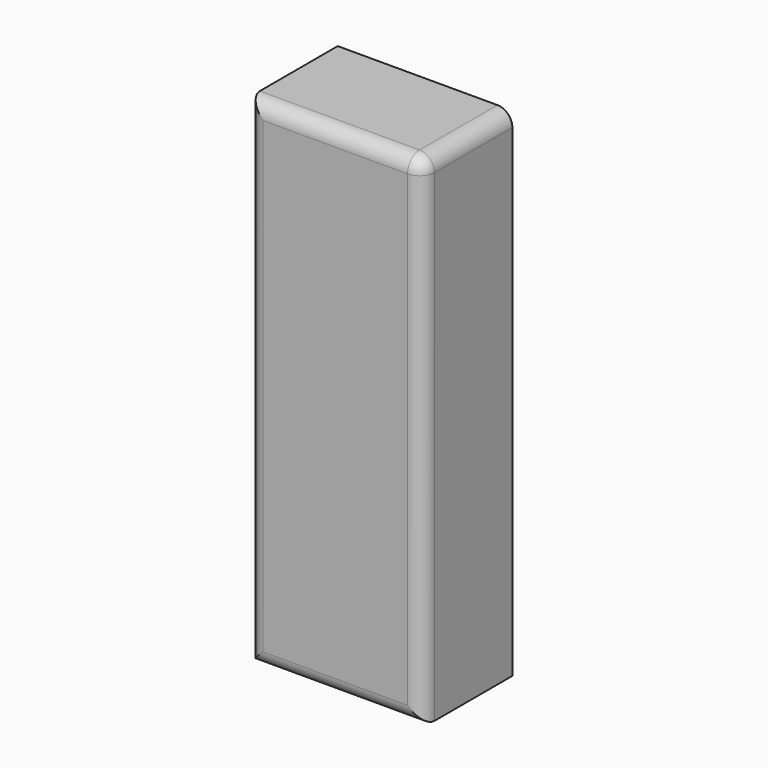
from build123d import *

# Parameters (mm, degrees)
F0_W     = 175.415128
F0_H     = 112.812422
F1_DEPTH = 500
F2_R     = 15


with BuildPart() as f1:
    # F0 (on Top) → F1 (new body)
    with BuildSketch(Plane.XY):
        with Locations((87.707564, -56.406211)):
            Rectangle(F0_W, F0_H)
        with Locations((87.707564, -56.406211)):
            Rectangle(F0_W, F0_H)
    extrude(amount=F1_DEPTH)

    # F2
    f2_edges = [f1.edges().sort_by_distance(p)[0] for p in [
        (87.707564, -112.812422, 500),
        (0, -112.812422, 250),
        (175.415128, -112.812422, 250),
        (87.707564, -112.812422, 0),
        (175.415128, -56.406211, 500),
    ]]
    fillet(f2_edges, radius=F2_R)


solid = f1.part
